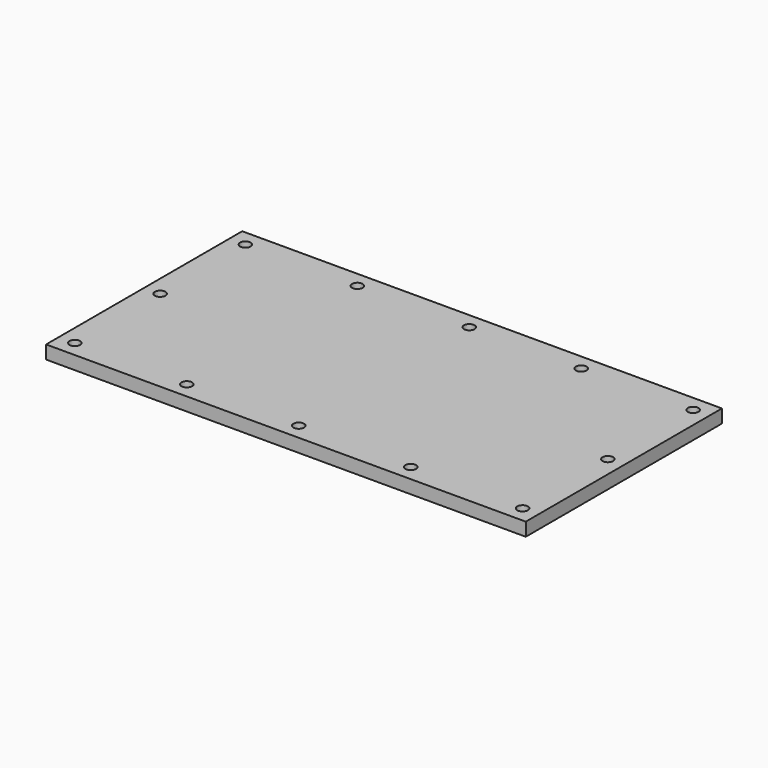
from build123d import *

# Parameters (mm, degrees)
F0_W     = 900
F0_H     = 460
F0_R     = 10
F1_DEPTH = 25


with BuildPart() as f1:
    # F0 (on Top) → F1 (new body)
    with BuildSketch(Plane.XY):
        with Locations((17.534237, -13.878327)):
            Rectangle(F0_W, F0_H)
        with Locations((-402.465763, -213.878327)):
            Circle(F0_R, mode=Mode.SUBTRACT)
        with Locations((-192.465763, -213.878327)):
            Circle(F0_R, mode=Mode.SUBTRACT)
        with Locations((17.534237, -213.878327)):
            Circle(F0_R, mode=Mode.SUBTRACT)
        with Locations((227.534237, -213.878327)):
            Circle(F0_R, mode=Mode.SUBTRACT)
        with Locations((437.534237, -213.878327)):
            Circle(F0_R, mode=Mode.SUBTRACT)
        with Locations((-402.465763, -13.878327)):
            Circle(F0_R, mode=Mode.SUBTRACT)
        with Locations((-402.465763, 186.121673)):
            Circle(F0_R, mode=Mode.SUBTRACT)
        with Locations((-192.465763, 186.121673)):
            Circle(F0_R, mode=Mode.SUBTRACT)
        with Locations((17.534237, 186.121673)):
            Circle(F0_R, mode=Mode.SUBTRACT)
        with Locations((437.534237, -13.878327)):
            Circle(F0_R, mode=Mode.SUBTRACT)
        with Locations((227.534237, 186.121673)):
            Circle(F0_R, mode=Mode.SUBTRACT)
        with Locations((437.534237, 186.121673)):
            Circle(F0_R, mode=Mode.SUBTRACT)
    extrude(amount=F1_DEPTH)


solid = f1.part
